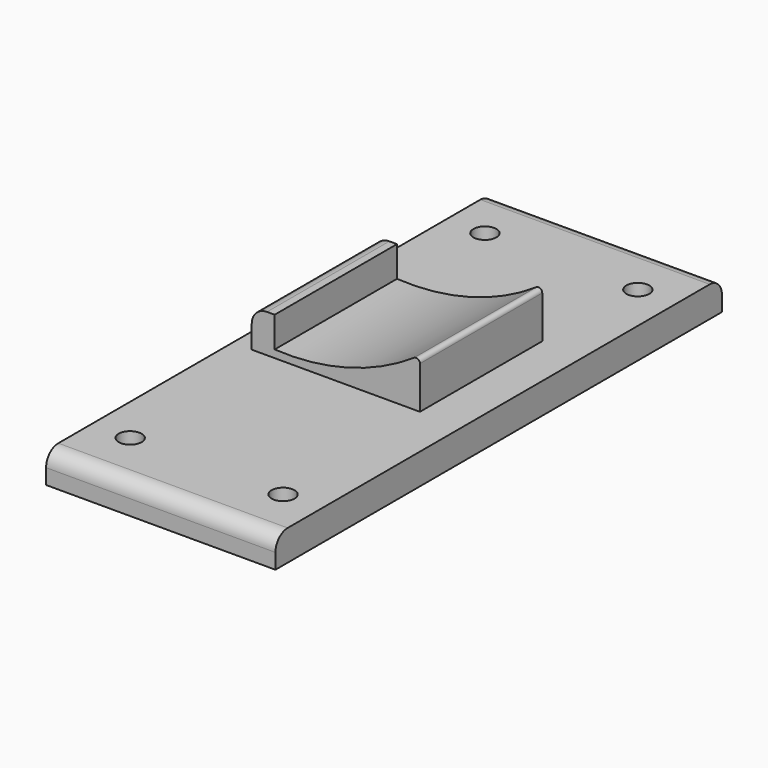
from build123d import *

# Parameters (mm, degrees)
CYLINDER072_R     = 1.5
CYLINDER072_DEPTH = 4
CYLINDER071_R     = 1.5
CYLINDER071_DEPTH = 4
CYLINDER073_R     = 1.5
CYLINDER073_DEPTH = 4
CYLINDER070_R     = 1.5
CYLINDER070_DEPTH = 4
EXTRUDE004_DEPTH  = 10
FILLET007_R       = 0.5
BOX017_W          = 3
BOX017_H          = 20
BOX017_DEPTH      = 5
FILLET009_R       = 2
BOX016_W          = 30
BOX016_H          = 73
BOX016_DEPTH      = 4
FILLET008_R       = 2


with BuildPart() as payload_plate_screw009:
    # Cylinder072 → Cylinder072 (new body)
    with BuildSketch(Plane(origin=(-10, 25, 152.7), x_dir=(1, 0, 0), z_dir=(0, 0, 1))):
        Circle(CYLINDER072_R)
    extrude(amount=CYLINDER072_DEPTH)


with BuildPart() as payload_plate_screw008:
    # Cylinder071 → Cylinder071 (new body)
    with BuildSketch(Plane(origin=(-10, -33, 152.7), x_dir=(1, 0, 0), z_dir=(0, 0, 1))):
        Circle(CYLINDER071_R)
    extrude(amount=CYLINDER071_DEPTH)


with BuildPart() as payload_plate_screw010:
    # Cylinder073 → Cylinder073 (new body)
    with BuildSketch(Plane(origin=(10, 25, 152.7), x_dir=(1, 0, 0), z_dir=(0, 0, 1))):
        Circle(CYLINDER073_R)
    extrude(amount=CYLINDER073_DEPTH)


with BuildPart() as payload_plate_screw_holes001:
    # Cylinder070 → Cylinder070 (new body)
    with BuildSketch(Plane(origin=(10, -33, 152.7), x_dir=(1, 0, 0), z_dir=(0, 0, 1))):
        Circle(CYLINDER070_R)
    extrude(amount=CYLINDER070_DEPTH)

    # Compound009: union payload-plate-screw009, payload-plate-screw008, payload-plate-screw010
    add(payload_plate_screw009.part)
    add(payload_plate_screw008.part)
    add(payload_plate_screw010.part)


with BuildPart() as webcam_cradle:
    # Sketch → Extrude004 (new body, symmetric)
    with BuildSketch(Plane.XZ):
        with BuildLine():
            Line((-9.5, 0), (9.5, 0))
            Line((9.5, 0), (9.5, 6.5))
            ThreePointArc((-9.5, 1), (0.468514, 2.131496), (9.5, 6.5))
            Line((-9.5, 0), (-9.5, 1))
        make_face()
    extrude(amount=EXTRUDE004_DEPTH, both=True)

    # Fillet007
    fillet007_edges = [webcam_cradle.edges().sort_by_distance(p)[0] for p in [
        (9.5, 0, 6.5),
    ]]
    fillet(fillet007_edges, radius=FILLET007_R)


with BuildPart() as webcam_cradle_1:
    # Fillet007 placement: moved
    add(webcam_cradle.part.moved(Location((0, 0, 156.7))))


with BuildPart() as from_stop:
    # Box017 → Box017 (new body)
    with BuildSketch(Plane(origin=(-12.5, -10, 156.7), x_dir=(1, 0, 0), z_dir=(0, 0, 1))):
        with Locations((1.5, 10)):
            Rectangle(BOX017_W, BOX017_H)
    extrude(amount=BOX017_DEPTH)

    # Fillet009
    fillet009_edges = [from_stop.edges().sort_by_distance(p)[0] for p in [
        (-12.5, 0, 161.7),
    ]]
    fillet(fillet009_edges, radius=FILLET009_R)


with BuildPart() as payload_plate_webcam:
    # Box016 → Box016 (new body)
    with BuildSketch(Plane(origin=(-15, -40.5, 152.7), x_dir=(1, 0, 0), z_dir=(0, 0, 1))):
        with Locations((15, 36.5)):
            Rectangle(BOX016_W, BOX016_H)
    extrude(amount=BOX016_DEPTH)

    # Fusion030: union webcam-cradle, from-stop
    add(webcam_cradle_1.part)
    add(from_stop.part)

    # Fillet008
    fillet008_edges = [payload_plate_webcam.edges().sort_by_distance(p)[0] for p in [
        (0, -40.5, 156.7),
        (0, 32.5, 156.7),
    ]]
    fillet(fillet008_edges, radius=FILLET008_R)

    # Cut054: cut payload-plate-screw-holes001
    add(payload_plate_screw_holes001.part, mode=Mode.SUBTRACT)


solid = payload_plate_webcam.part
